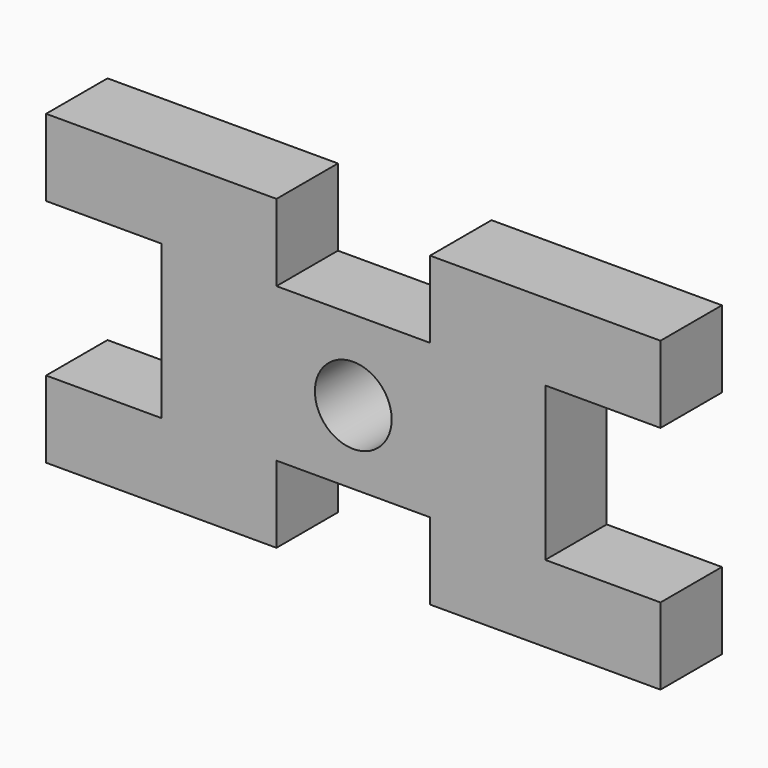
from build123d import *

# Parameters (mm, degrees)
F0_R     = 5
F1_DEPTH = 10


with BuildPart() as f1:
    # F0 (on Front) → F1 (new body)
    with BuildSketch(Plane.XZ):
        Polygon((10, 20), (0, 20), (-10, 20), (-10, 30), (-40, 30), (-40, 20), (-25, 20), (-25, 0), (-40, 0), (-40, -10), (-10, -10), (-10, 0), (0, 0), (10, 0), (10, -10), (40, -10), (40, 0), (25, 0), (25, 20), (40, 20), (40, 30), (10, 30), align=None)
        with Locations((0, 9.581403)):
            Circle(F0_R, mode=Mode.SUBTRACT)
    extrude(amount=F1_DEPTH)


solid = f1.part
